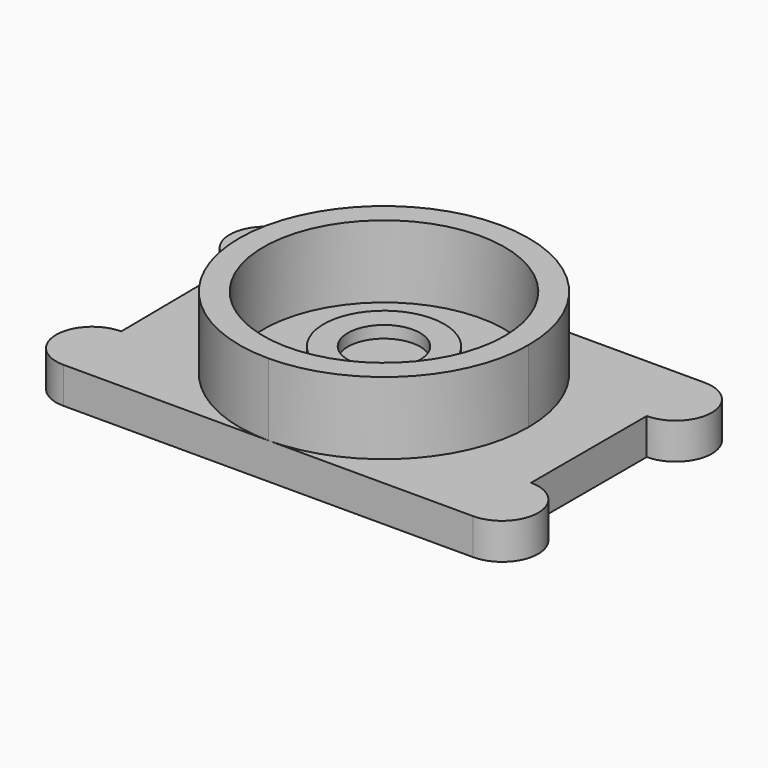
from build123d import *

# Parameters (mm, degrees)
F0_R     = 63.5
F0_R_2   = 31.75
F0_R_3   = 19.05
F1_DEPTH = 19.05
F2_DEPTH = 57.15
F3_DEPTH = 31.75
F4_DEPTH = 25.4


with BuildPart() as f1:
    # F0 (on Top) → F1 (new body)
    with BuildSketch(Plane.XY):
        with BuildLine():
            ThreePointArc((0, 76.2), (53.881537, 53.881537), (76.2, 0))
            ThreePointArc((76.2, 0), (53.881537, -53.881537), (0, -76.2))
            Line((0, -76.2), (107.95, -76.2))
            ThreePointArc((107.95, -76.2), (127, -57.15), (107.95, -38.1))
            Line((107.95, -38.1), (107.95, 38.1))
            ThreePointArc((107.95, 38.1), (127, 57.15), (107.95, 76.2))
            Line((107.95, 76.2), (0, 76.2))
        make_face()
        with BuildLine():
            ThreePointArc((0, -76.2), (-76.2, 0), (0, 76.2))
            Line((0, 76.2), (-107.95, 76.2))
            ThreePointArc((-107.95, 76.2), (-126.996003, 57.540236), (-108.730309, 38.115988))
            Line((-108.730309, 38.115988), (-107.95, -38.1))
            ThreePointArc((-107.95, -38.1), (-127, -57.15), (-107.95, -76.2))
            Line((-107.95, -76.2), (0, -76.2))
        make_face()
        with BuildLine():
            ThreePointArc((0, -76.2), (53.881537, -53.881537), (76.2, 0))
            ThreePointArc((76.2, 0), (53.881537, 53.881537), (0, 76.2))
            ThreePointArc((0, 76.2), (-76.2, 0), (0, -76.2))
        make_face()
        Circle(F0_R, mode=Mode.SUBTRACT)
        Circle(F0_R)
        Circle(F0_R_2, mode=Mode.SUBTRACT)
        Circle(F0_R_2)
        Circle(F0_R_3, mode=Mode.SUBTRACT)
        Circle(F0_R_3)
    extrude(amount=F1_DEPTH)

    # F0 (on Top) → F2 (join)
    with BuildSketch(Plane.XY):
        with BuildLine():
            ThreePointArc((0, -76.2), (53.881537, -53.881537), (76.2, 0))
            ThreePointArc((76.2, 0), (53.881537, 53.881537), (0, 76.2))
            ThreePointArc((0, 76.2), (-76.2, 0), (0, -76.2))
        make_face()
        Circle(F0_R, mode=Mode.SUBTRACT)
    extrude(amount=F2_DEPTH)

    # F0 (on Top) → F3 (join)
    with BuildSketch(Plane.XY):
        Circle(F0_R_2)
        Circle(F0_R_3, mode=Mode.SUBTRACT)
    extrude(amount=F3_DEPTH)

    # F0 (on Top) → F4 (join)
    with BuildSketch(Plane.XY):
        Circle(F0_R_3)
    extrude(amount=F4_DEPTH)


solid = f1.part
